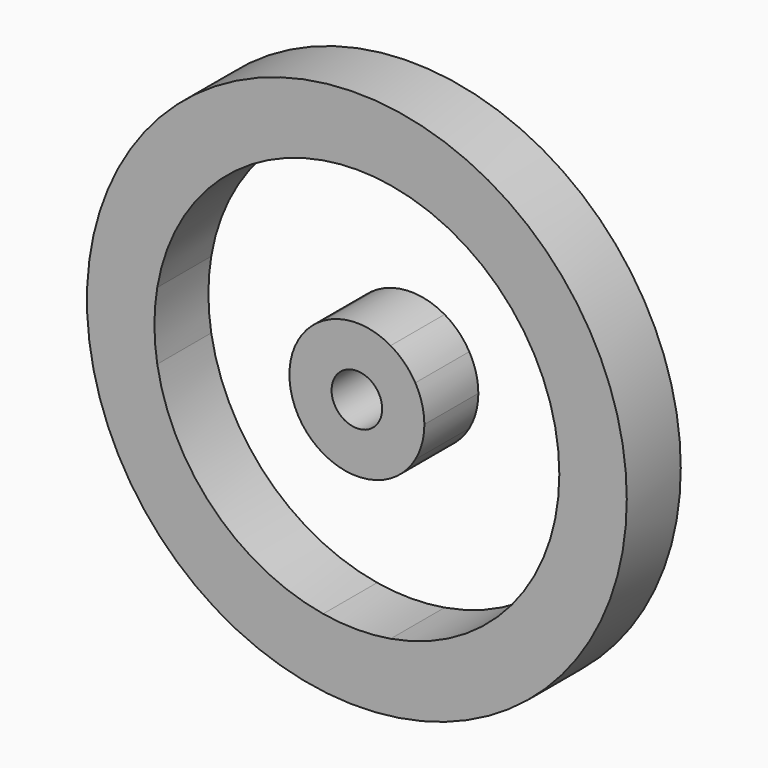
from build123d import *

# Parameters (mm, degrees)
F0_R     = 101.6
F1_DEPTH = 25.4
F0_R_2   = 9.525


with BuildPart() as f1:
    # F0 (on Front) → F1 (new body)
    with BuildSketch(Plane.XZ):
        Circle(F0_R)
        with BuildLine():
            ThreePointArc((12.7, 75.1342132454), (58.1987113259, 49.1868884968), (76.2, 0))
            ThreePointArc((76.2, 0), (75.9330858365, -6.3723210333), (75.1342132454, -12.7))
            ThreePointArc((75.1342132454, -12.7), (53.8815367264, -53.8815367264), (12.7, -75.1342132454))
            ThreePointArc((12.7, -75.1342132454), (0, -76.2), (-12.7, -75.1342132454))
            ThreePointArc((-12.7, -75.1342132454), (-53.8815367264, -53.8815367264), (-75.1342132454, -12.7))
            ThreePointArc((-75.1342132454, -12.7), (-76.2, 0), (-75.1342132454, 12.7))
            ThreePointArc((-75.1342132454, 12.7), (-53.8815367264, 53.8815367264), (-12.7, 75.1342132454))
            ThreePointArc((-12.7, 75.1342132454), (0, 76.2), (12.7, 75.1342132454))
        make_face(mode=Mode.SUBTRACT)
    extrude(amount=F1_DEPTH)


with BuildPart() as f1b:
    # F0 (on Front) → F1, piece 2 (new body)
    with BuildSketch(Plane.XZ):
        with BuildLine():
            ThreePointArc((21.9970452561, 12.7), (17.9605122421, 17.9605122421), (12.7, 21.9970452561))
            ThreePointArc((12.7, 21.9970452561), (0, 25.4), (-12.7, 21.9970452561))
            ThreePointArc((-12.7, 21.9970452561), (-17.9605122421, 17.9605122421), (-21.9970452561, 12.7))
            ThreePointArc((-21.9970452561, 12.7), (-25.4, 0), (-21.9970452561, -12.7))
            ThreePointArc((-21.9970452561, -12.7), (-17.9605122421, -17.9605122421), (-12.7, -21.9970452561))
            ThreePointArc((-12.7, -21.9970452561), (0, -25.4), (12.7, -21.9970452561))
            ThreePointArc((12.7, -21.9970452561), (17.9605122421, -17.9605122421), (21.9970452561, -12.7))
            ThreePointArc((21.9970452561, -12.7), (24.5345159877, -6.5740037456), (25.4, 0))
            ThreePointArc((25.4, 0), (24.5345159877, 6.5740037456), (21.9970452561, 12.7))
        make_face()
        Circle(F0_R_2, mode=Mode.SUBTRACT)
    extrude(amount=F1_DEPTH)


solid = Compound([f1.part, f1b.part])
